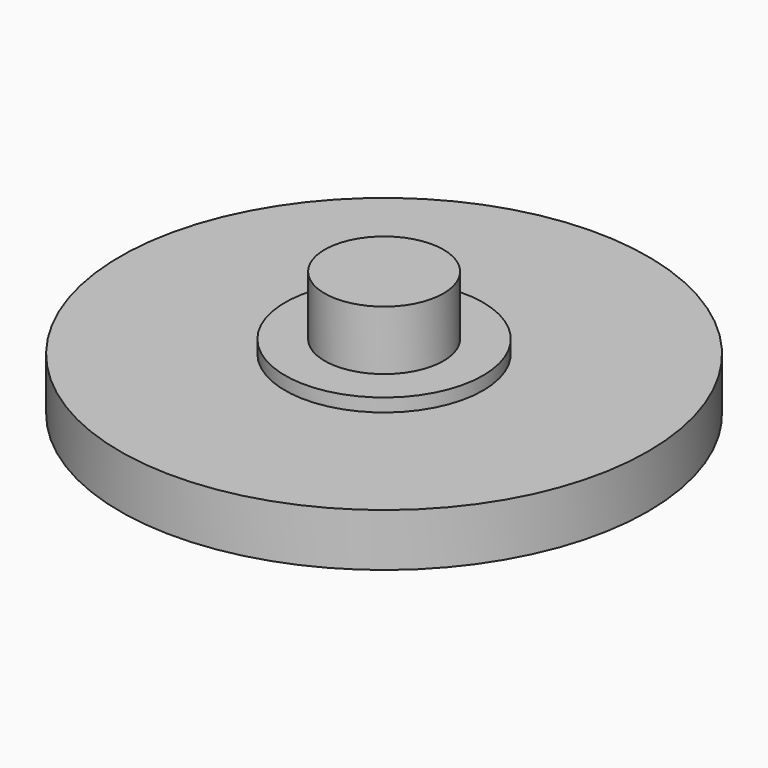
from build123d import *

# Parameters (mm, degrees)
F0_R     = 10
F0_R_2   = 3.75
F0_R_3   = 2.25
F1_DEPTH = 2
F2_DEPTH = 4.75
F3_DEPTH = 2.5


with BuildPart() as f1:
    # F0 (on Top) → F1 (new body)
    with BuildSketch(Plane.XY):
        Circle(F0_R)
        Circle(F0_R_2, mode=Mode.SUBTRACT)
        Circle(F0_R_2)
        Circle(F0_R_3, mode=Mode.SUBTRACT)
    extrude(amount=F1_DEPTH)

    # F0 (on Top) → F2 (join)
    with BuildSketch(Plane.XY):
        Circle(F0_R_3)
    extrude(amount=F2_DEPTH)

    # F0 (on Top) → F3 (join)
    with BuildSketch(Plane.XY):
        Circle(F0_R_2)
        Circle(F0_R_3, mode=Mode.SUBTRACT)
    extrude(amount=F3_DEPTH)


solid = f1.part
